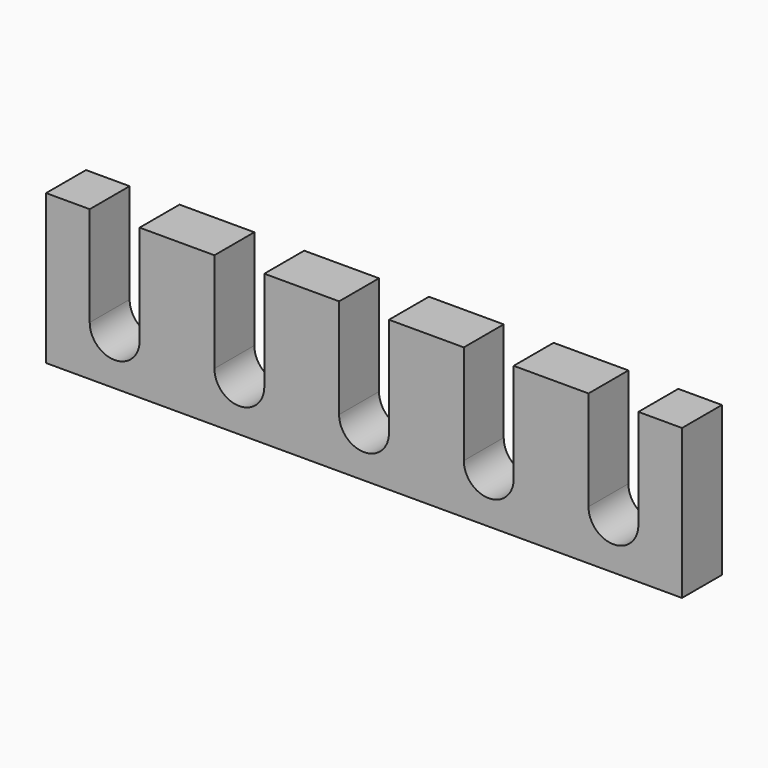
from build123d import *

# Parameters (mm, degrees)
F1_DEPTH = 12.7


with BuildPart() as f1:
    # F0 (on Front) → F1 (new body)
    with BuildSketch(Plane.XZ):
        with BuildLine():
            Line((-80.9625, -19.05), (80.9625, -19.05))
            Line((80.9625, -19.05), (80.9625, 19.05))
            Line((80.9625, 19.05), (69.85, 19.05))
            Line((69.85, 19.05), (69.85, -6.35))
            ThreePointArc((69.85, -6.35), (63.5, -12.7), (57.15, -6.35))
            Line((57.15, -6.35), (57.15, 19.05))
            Line((57.15, 19.05), (38.1, 19.05))
            Line((38.1, 19.05), (38.1, -6.35))
            ThreePointArc((38.1, -6.35), (31.75, -12.7), (25.4, -6.35))
            Line((25.4, -6.35), (25.4, 19.05))
            Line((25.4, 19.05), (6.35, 19.05))
            Line((6.35, 19.05), (6.35, -6.35))
            ThreePointArc((6.35, -6.35), (0, -12.7), (-6.35, -6.35))
            Line((-6.35, -6.35), (-6.35, 19.05))
            Line((-6.35, 19.05), (-25.4, 19.05))
            Line((-25.4, 19.05), (-25.4, -6.35))
            ThreePointArc((-25.4, -6.35), (-31.75, -12.7), (-38.1, -6.35))
            Line((-38.1, -6.35), (-38.1, 19.05))
            Line((-38.1, 19.05), (-57.15, 19.05))
            Line((-57.15, 19.05), (-57.15, -6.35))
            ThreePointArc((-57.15, -6.35), (-63.5, -12.7), (-69.85, -6.35))
            Line((-69.85, -6.35), (-69.85, 19.05))
            Line((-69.85, 19.05), (-80.9625, 19.05))
            Line((-80.9625, 19.05), (-80.9625, -19.05))
        make_face()
    extrude(amount=F1_DEPTH)


solid = f1.part
